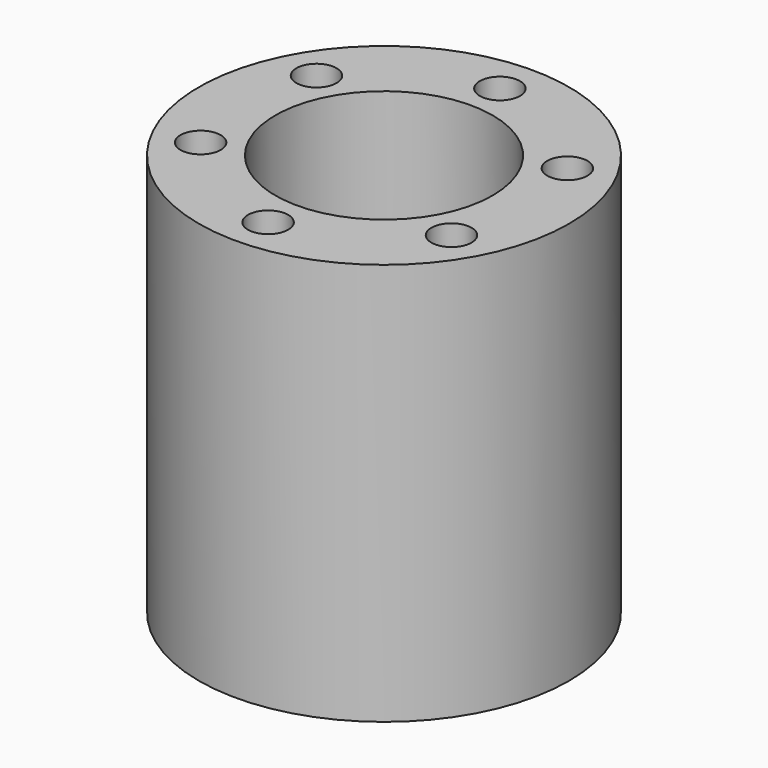
from build123d import *

# Parameters (mm, degrees)
F0_R     = 23
F3_DEPTH = 50
F4_R     = 13.5
F1_DEPTH = 27
F5_R     = 2.5
F2_DEPTH = 15


with BuildPart() as f3:
    # F0 (on Top) → F3 (new body)
    with BuildSketch(Plane.XY):
        Circle(F0_R)
        with BuildLine():
            ThreePointArc((-5.6921, 2.05), (0, 6.05), (5.6921, 2.05))
            Line((5.6921, 2.05), (8.1, 2.05))
            Line((8.1, 2.05), (8.1, -2.05))
            Line((8.1, -2.05), (5.6921, -2.05))
            ThreePointArc((5.6921, -2.05), (0, -6.05), (-5.6921, -2.05))
            Line((-5.6921, -2.05), (-8.1, -2.05))
            Line((-8.1, -2.05), (-8.1, 2.05))
            Line((-8.1, 2.05), (-5.6921, 2.05))
        make_face(mode=Mode.SUBTRACT)
        with BuildLine():
            ThreePointArc((-5.6921, -2.05), (-6.05, 0), (-5.6921, 2.05))
            Line((-5.6921, 2.05), (-8.1, 2.05))
            Line((-8.1, 2.05), (-8.1, -2.05))
            Line((-8.1, -2.05), (-5.6921, -2.05))
        make_face()
    extrude(amount=F3_DEPTH)

    # F4 (on face) → F1 (cut)
    with BuildSketch(Plane.XY.offset(50)):
        Circle(F4_R)
    extrude(amount=-F1_DEPTH, mode=Mode.SUBTRACT)

    # F5 (on face) → F2 (cut)
    with BuildSketch(Plane.XY.offset(50)):
        with Locations((15.588457, 9)):
            Circle(F5_R)
        with Locations((0, 18)):
            Circle(F5_R)
        with Locations((-15.588457, 9)):
            Circle(F5_R)
        with Locations((15.588457, -9)):
            Circle(F5_R)
        with Locations((0, -18)):
            Circle(F5_R)
        with Locations((-15.588457, -9)):
            Circle(F5_R)
    extrude(amount=-F2_DEPTH, mode=Mode.SUBTRACT)


solid = f3.part
